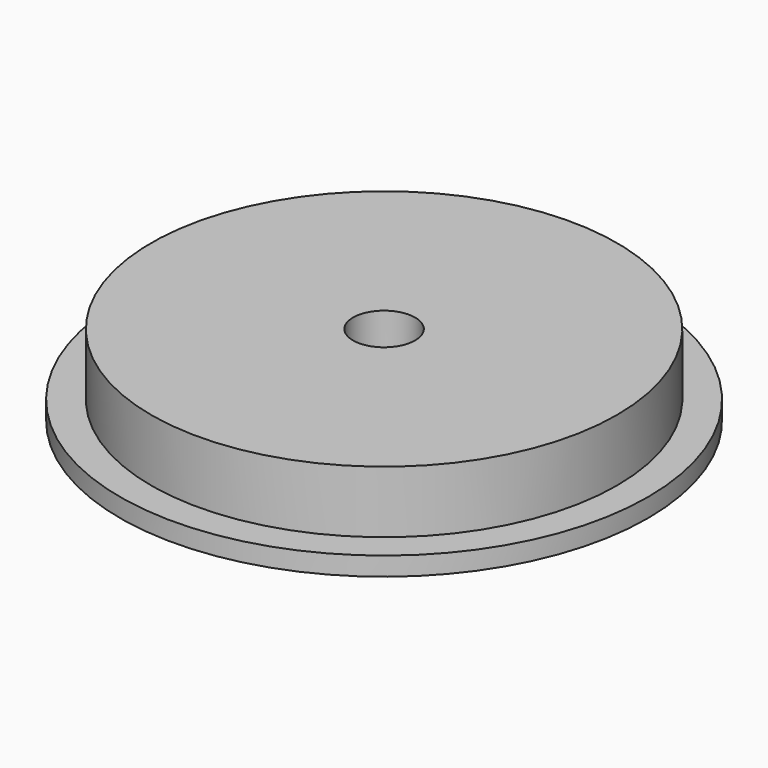
from build123d import *

# Parameters (mm, degrees)
F0_R     = 42.5
F0_R_2   = 37.5
F0_R_3   = 5
F1_DEPTH = 3
F2_DEPTH = 10


with BuildPart() as f1:
    # F0 (on Top) → F1 (new body)
    with BuildSketch(Plane.XY):
        with Locations((-113.58463, -86.846486)):
            Circle(F0_R)
        with Locations((-113.58463, -86.846486)):
            Circle(F0_R_2, mode=Mode.SUBTRACT)
        with Locations((-113.58463, -86.846486)):
            Circle(F0_R_2)
        with Locations((-113.58463, -86.846486)):
            Circle(F0_R_3, mode=Mode.SUBTRACT)
    extrude(amount=-F1_DEPTH)

    # F0 (on Top) → F2 (join)
    with BuildSketch(Plane.XY):
        with Locations((-113.58463, -86.846486)):
            Circle(F0_R_2)
        with Locations((-113.58463, -86.846486)):
            Circle(F0_R_3, mode=Mode.SUBTRACT)
    extrude(amount=F2_DEPTH)


solid = f1.part
